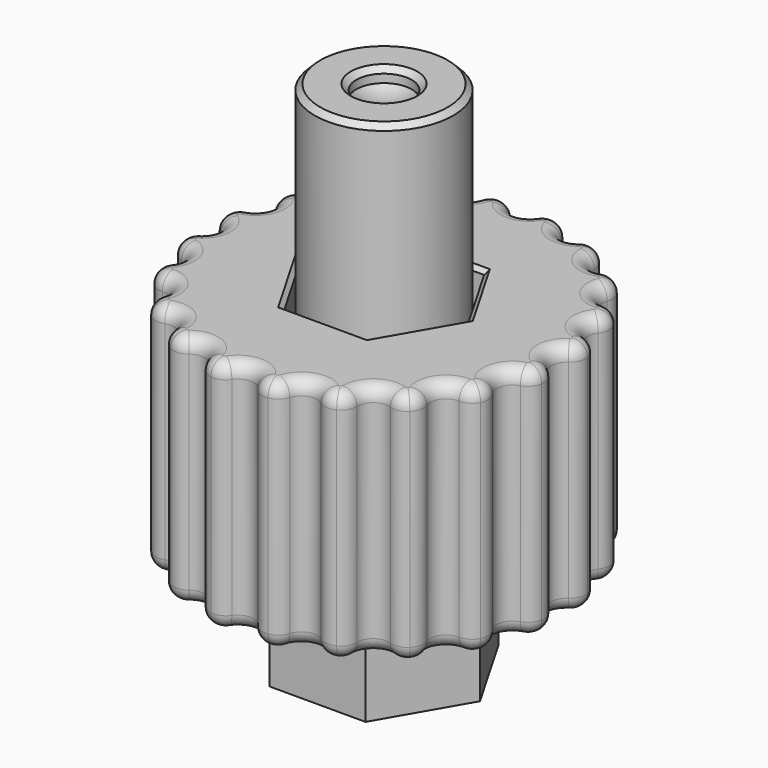
from build123d import *

# Parameters (mm, degrees)
SKETCH004_R        = 13.2
PAD_DEPTH          = 17
POCKET002_DEPTH    = 99.047816
POLARPATTERN_COUNT = 20
SKETCH005_R        = 8.2
POCKET_DEPTH       = 4.001
POCKET001_DEPTH    = 17.001
FILLET_R           = 1
CHAMFER_SIZE       = 0.3
SKETCH008_R        = 3
PAD001_DEPTH       = 7
CHAMFER001_SIZE    = 0.8
SKETCH009_R        = 3
SKETCH009_R_2      = 2.3
PAD002_DEPTH       = 2
SKETCH010_R        = 3
PAD003_DEPTH       = 0.15
CHAMFER002_SIZE    = 0.4
CHAMFER003_SIZE    = 1


with BuildPart() as m5_direct:
    # Sketch → Revolution (revolve)
    with BuildSketch(Plane.XZ):
        with BuildLine():
            Line((-3, 0), (-7.9, 0))
            Line((-7.9, 0), (-7.9, 4))
            Line((-7.9, 4), (-5.95, 4))
            Line((-5.95, 4), (-5.95, 10.1))
            Line((-5.95, 10.1), (-7.9, 10.1))
            Line((-7.9, 10.1), (-7.9, 13))
            Line((-7.9, 13), (-2.48, 13))
            Line((-2.48, 13), (-2.48, 8))
            Line((-2.48, 8), (-1.25, 8))
            Line((-1.25, 8), (-1.25, 6.2))
            ThreePointArc((-1.379815, 5.327054), (-1.282631, 5.758727), (-1.25, 6.2))
            Line((-1.379815, 5.327054), (-3, 0))
        make_face()
    revolve(axis=Axis((0, 0, 0), (0, 0, 1)))


with BuildPart() as m6_direct:
    # Sketch002 → Revolution002 (revolve)
    with BuildSketch(Plane.XZ):
        with BuildLine():
            Line((-3, 0), (-7.9, 0))
            Line((-7.9, 0), (-7.9, 4))
            Line((-7.9, 4), (-5.95, 4))
            Line((-5.95, 4), (-5.95, 10.1))
            Line((-5.95, 10.1), (-7.9, 10.1))
            Line((-7.9, 10.1), (-7.9, 13))
            Line((-7.9, 13), (-3, 13))
            Line((-3, 13), (-3, 8))
            Line((-3, 8), (-1.25, 8))
            Line((-1.25, 8), (-1.25, 6.2))
            ThreePointArc((-1.379815, 5.327054), (-1.282631, 5.758727), (-1.25, 6.2))
            Line((-1.379815, 5.327054), (-3, 0))
        make_face()
    revolve(axis=Axis((0, 0, 0), (0, 0, 1)))


with BuildPart() as tool:
    # Sketch004 → Pad (new body)
    with BuildSketch(Plane.XY):
        Circle(SKETCH004_R)
    extrude(amount=PAD_DEPTH)

    # Sketch007 → Pocket002 (cut, through all)
    with BuildSketch(Plane.XY.offset(17)):
        with BuildLine():
            ThreePointArc((-0.94307, 12.554313), (0, 12.057068), (0.94307, 12.554313))
            ThreePointArc((2.064935, 13.037486), (1.434042, 12.95834), (0.94307, 12.554313))
            ThreePointArc((2.064935, 13.037486), (0, 14.342932), (-2.064935, 13.037486))
            ThreePointArc((-0.94307, 12.554313), (-1.434042, 12.95834), (-2.064935, 13.037486))
        make_face()
    pocket002 = extrude(amount=-POCKET002_DEPTH, mode=Mode.SUBTRACT)

    # PolarPattern: Pocket002 ×20 about axis
    polarpattern_axis = Axis((0, 0, 17), (0, 0, 1))
    for i in range(1, POLARPATTERN_COUNT):
        add(pocket002.rotate(polarpattern_axis, i * 360 / POLARPATTERN_COUNT), mode=Mode.SUBTRACT)

    # Sketch005 → Pocket (cut, through all)
    with BuildSketch(Plane.XY.offset(4)):
        Circle(SKETCH005_R)
    extrude(amount=-POCKET_DEPTH, mode=Mode.SUBTRACT)

    # Sketch006 → Pocket001 (cut, through all)
    with BuildSketch(Plane.XY.offset(17)):
        Polygon((3.031089, 5.25), (-3.031089, 5.25), (-6.062178, 0), (-3.031089, -5.25), (3.031089, -5.25), (6.062178, 0), align=None)
    extrude(amount=-POCKET001_DEPTH, mode=Mode.SUBTRACT)

    # Fillet
    fillet_edges = [tool.edges().sort_by_distance(p)[0] for p in [
        (12.057068, 0, 17),
        (12.057068, 0, 0),
    ]]
    fillet(fillet_edges, radius=FILLET_R)

    # Chamfer
    chamfer_edges = [tool.edges().sort_by_distance(p)[0] for p in [
        (0, 5.25, 17),
        (4.546633, 2.625, 17),
        (4.546633, -2.625, 17),
        (0, -5.25, 17),
        (-4.546633, -2.625, 17),
        (-4.546633, 2.625, 17),
    ]]
    chamfer(chamfer_edges, length=CHAMFER_SIZE)


with BuildPart() as m5_insert:
    # Sketch001 → Revolution001 (revolve)
    with BuildSketch(Plane.XZ):
        with BuildLine():
            Line((-3, 0), (-7.9, 0))
            Line((-7.9, 0), (-7.9, 4))
            Line((-7.9, 4), (-5.95, 4))
            Line((-5.95, 4), (-5.95, 10.1))
            Line((-5.95, 10.1), (-7.9, 10.1))
            Line((-7.9, 10.1), (-7.9, 13))
            Line((-7.9, 13), (-3.1, 13))
            Line((-3.1, 13), (-3.1, 6.5))
            Line((-3.1, 6.5), (-1.25, 6.5))
            Line((-1.25, 6.5), (-1.25, 4.7))
            ThreePointArc((-1.492456, 3.518496), (-1.311239, 4.096938), (-1.25, 4.7))
            Line((-1.492456, 3.518496), (-3, 0))
        make_face()
    revolve(axis=Axis((0, 0, 0), (0, 0, 1)))


with BuildPart() as joiner_m6_direct:
    # Sketch008 → Pad001 (new body, symmetric)
    with BuildSketch(Plane.XY):
        Polygon((3.464102, 6), (-3.464102, 6), (-6.928203, 0), (-3.464102, -6), (3.464102, -6), (6.928203, 0), align=None)
        Circle(SKETCH008_R, mode=Mode.SUBTRACT)
    extrude(amount=PAD001_DEPTH, both=True)

    # Chamfer001
    chamfer001_edges = [joiner_m6_direct.edges().sort_by_distance(p)[0] for p in [
        (-3, 0, 7),
        (-3, 0, -7),
    ]]
    chamfer(chamfer001_edges, length=CHAMFER001_SIZE)

    # Sketch009 → Pad002 (join, symmetric)
    with BuildSketch(Plane.XY):
        Circle(SKETCH009_R)
        Circle(SKETCH009_R_2, mode=Mode.SUBTRACT)
    extrude(amount=PAD002_DEPTH, both=True)

    # Sketch010 → Pad003 (join)
    with BuildSketch(Plane.XY.offset(-2)):
        Circle(SKETCH010_R)
    extrude(amount=PAD003_DEPTH)


with BuildPart() as joiner_tube_4mm:
    # Sketch012 → Revolution003 (revolve)
    with BuildSketch(Plane.YZ):
        with BuildLine():
            Line((-2, 30), (-5, 30))
            Line((-5, 30), (-5, 0))
            Line((-5, 0), (-2, 0))
            Line((-2, 0), (-2, 1))
            ThreePointArc((-2, 1), (-1.7, 2.053565), (-2, 3.107131))
            Line((-2, 3.107131), (-2, 6.537327))
            ThreePointArc((-2, 6.537327), (-1.7, 7.590893), (-2, 8.644458))
            Line((-2, 8.644458), (-2, 12.074655))
            ThreePointArc((-2, 12.074655), (-1.702692, 13.024483), (-1.9, 14))
            Line((-1.9, 14), (-1.9, 16))
            ThreePointArc((-1.9, 16), (-1.702692, 16.975517), (-2, 17.925345))
            Line((-2, 17.925345), (-2, 21.355542))
            ThreePointArc((-2, 21.355542), (-1.7, 22.409107), (-2, 23.462673))
            Line((-2, 23.462673), (-2, 26.892869))
            ThreePointArc((-2, 26.892869), (-1.7, 27.946435), (-2, 29))
            Line((-2, 29), (-2, 30))
        make_face()
    revolve(axis=Axis((0, 0, 0), (0, 0, 1)))

    # Chamfer002
    chamfer002_edges = [joiner_tube_4mm.edges().sort_by_distance(p)[0] for p in [
        (0, 5, 0),
        (0, 2, 0),
        (0, 2, 30),
        (0, 5, 30),
    ]]
    chamfer(chamfer002_edges, length=CHAMFER002_SIZE)


with BuildPart() as plug_6mm:
    # Sketch013 → Revolution004 (revolve)
    with BuildSketch(Plane.YZ):
        Polygon((0, 0), (-6.2, 0), (-6.2, 2.1), (-3.2, 2.1), (-3.2, 7.1), (0, 7.1), align=None)
    revolve(axis=Axis((0, 0, 0), (0, 0, 1)))

    # Chamfer003
    chamfer003_edges = [plug_6mm.edges().sort_by_distance(p)[0] for p in [
        (0, 3.2, 7.1),
    ]]
    chamfer(chamfer003_edges, length=CHAMFER003_SIZE)


solid = Compound([m5_direct.part, m6_direct.part, tool.part, m5_insert.part, joiner_m6_direct.part, joiner_tube_4mm.part, plug_6mm.part])
